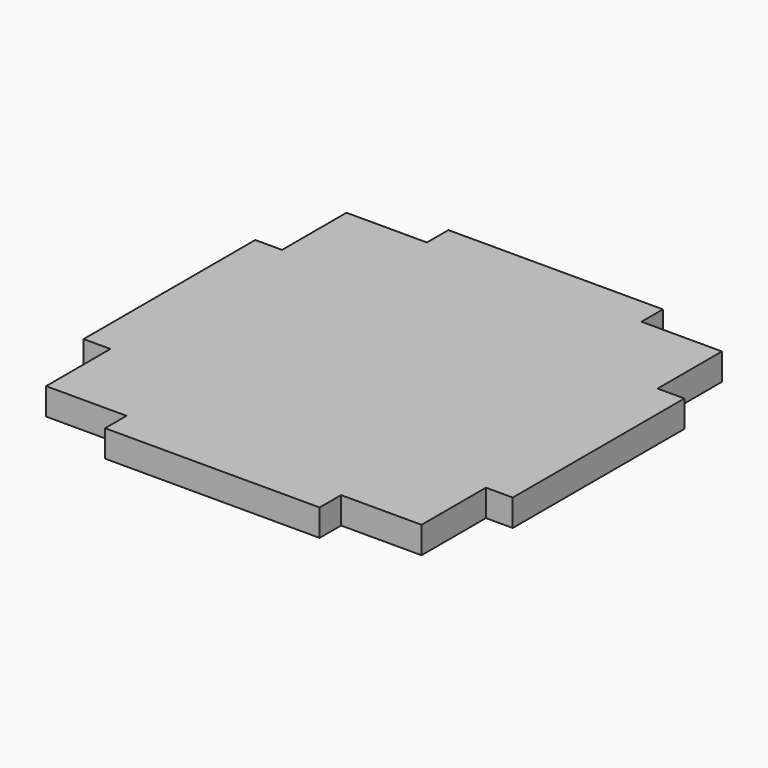
from build123d import *

# Parameters (mm, degrees)
F0_W     = 12.7
F0_H     = 3.175
F0_W_2   = 3.175
F0_H_2   = 12.7
F1_DEPTH = 3.175


with BuildPart() as f1:
    # F0 (on Top) → F1 (new body)
    with BuildSketch(Plane.XY):
        Polygon((-12.7, 22.225), (-22.225, 22.225), (-22.225, 12.7), (-22.225, 0), (-22.225, -12.7), (-22.225, -22.225), (-12.7, -22.225), (0, -22.225), (12.7, -22.225), (22.225, -22.225), (22.225, -12.7), (22.225, 0), (22.225, 12.7), (22.225, 22.225), (12.7, 22.225), (0, 22.225), align=None)
        with Locations((-6.35, 23.8125)):
            Rectangle(F0_W, F0_H)
        with Locations((6.35, 23.8125)):
            Rectangle(F0_W, F0_H)
        with Locations((23.8125, 6.35)):
            Rectangle(F0_W_2, F0_H_2)
        with Locations((23.8125, -6.35)):
            Rectangle(F0_W_2, F0_H_2)
        with Locations((6.35, -23.8125)):
            Rectangle(F0_W, F0_H)
        with Locations((-6.35, -23.8125)):
            Rectangle(F0_W, F0_H)
        with Locations((-23.8125, -6.35)):
            Rectangle(F0_W_2, F0_H_2)
        with Locations((-23.8125, 6.35)):
            Rectangle(F0_W_2, F0_H_2)
    extrude(amount=F1_DEPTH)


solid = f1.part
